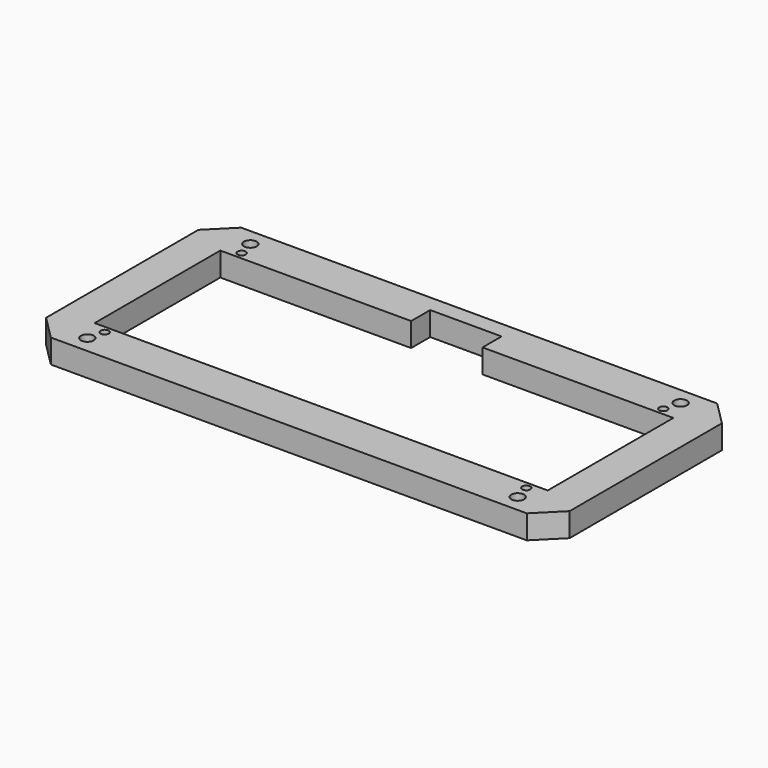
from build123d import *

# Parameters (mm, degrees)
F0_W     = 139.7
F0_H     = 63.5
F0_R     = 1.7145
F0_R_2   = 1.0922
F1_DEPTH = 6.35
F2_SIZE  = 6.35


with BuildPart() as f1:
    # F0 (on Top) → F1 (new body)
    with BuildSketch(Plane.XY):
        Rectangle(F0_W, F0_H)
        with Locations((-57.404, -27.178)):
            Circle(F0_R, mode=Mode.SUBTRACT)
        with Locations((-56.261, -22.86)):
            Circle(F0_R_2, mode=Mode.SUBTRACT)
        with Locations((57.404, -27.178)):
            Circle(F0_R, mode=Mode.SUBTRACT)
        with Locations((56.261, -22.86)):
            Circle(F0_R_2, mode=Mode.SUBTRACT)
        with Locations((-56.261, 22.86)):
            Circle(F0_R_2, mode=Mode.SUBTRACT)
        with Locations((-57.404, 27.178)):
            Circle(F0_R, mode=Mode.SUBTRACT)
        Polygon((9.525, 20.955), (60.452, 20.955), (60.452, -20.955), (-60.452, -20.955), (-60.452, 20.955), (-9.525, 20.955), (-9.525, 27.305), (9.525, 27.305), align=None, mode=Mode.SUBTRACT)
        with Locations((56.261, 22.86)):
            Circle(F0_R_2, mode=Mode.SUBTRACT)
        with Locations((57.404, 27.178)):
            Circle(F0_R, mode=Mode.SUBTRACT)
    extrude(amount=F1_DEPTH)

    # F2
    f2_edges = [f1.edges().sort_by_distance(p)[0] for p in [
        (-69.85, -31.75, 3.175),
        (69.85, 31.75, 3.175),
        (-69.85, 31.75, 3.175),
        (69.85, -31.75, 3.175),
    ]]
    chamfer(f2_edges, length=F2_SIZE)


solid = f1.part
